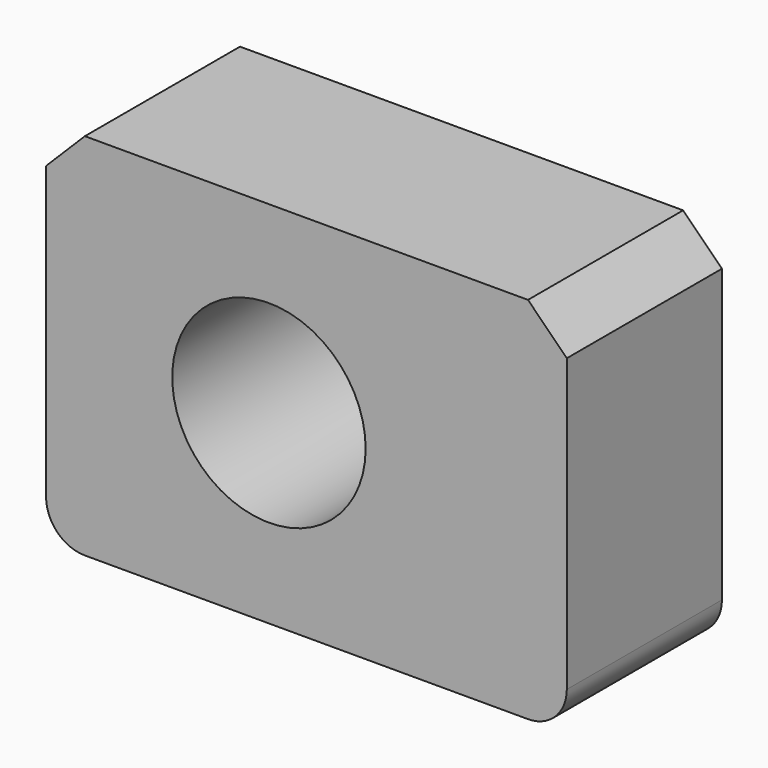
from build123d import *

# Parameters (mm, degrees)
F0_W     = 68.209966
F0_H     = 48.351366
F0_R     = 12.668072
F1_DEPTH = 25.4
F2_SIZE2 = 5.08
F2_SIZE  = 5.08
F3_R     = 5.08


with BuildPart() as f1:
    # F0 (on Front) → F1 (new body)
    with BuildSketch(Plane.XZ):
        with Locations((-11.080523, 11.512229)):
            Rectangle(F0_W, F0_H)
        with Locations((-15.992666, 11.620908)):
            Circle(F0_R, mode=Mode.SUBTRACT)
    extrude(amount=F1_DEPTH)

    # F2
    f2_edges = [f1.edges().sort_by_distance(p)[0] for p in [
        (23.02446, -12.7, 35.687912),
        (-45.185506, -12.7, 35.687912),
    ]]
    chamfer(f2_edges, length=F2_SIZE, length2=F2_SIZE2)

    # F3
    f3_edges = [f1.edges().sort_by_distance(p)[0] for p in [
        (-45.185506, -12.7, -12.663454),
        (23.02446, -12.7, -12.663454),
    ]]
    fillet(f3_edges, radius=F3_R)


solid = f1.part
